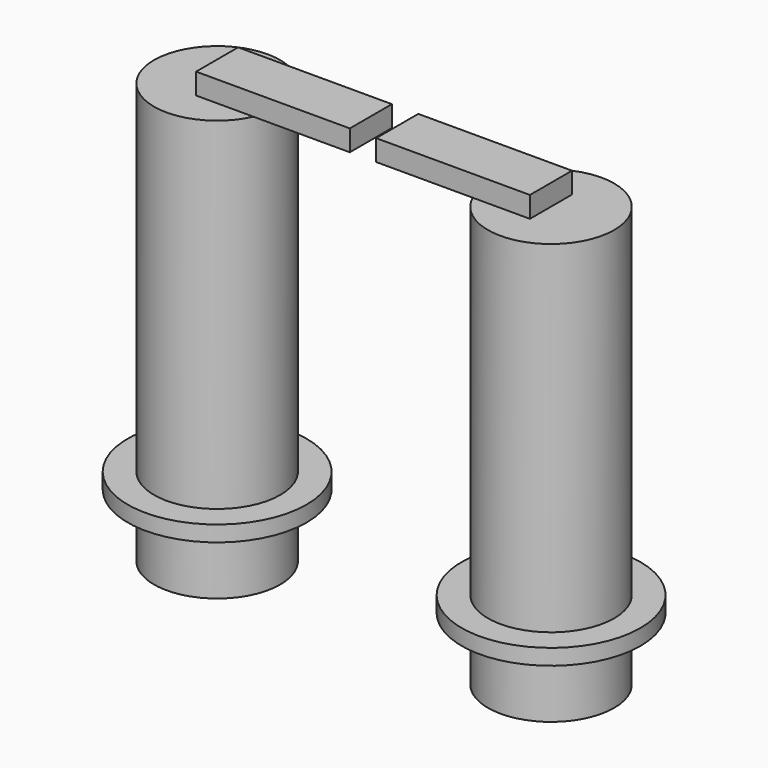
from build123d import *

# Parameters (mm, degrees)
CYLINDER100_R     = 17
CYLINDER100_DEPTH = 3
CYLINDER095_R     = 12
CYLINDER095_DEPTH = 80
CYLINDER132_R     = 17
CYLINDER132_DEPTH = 3
CYLINDER131_R     = 12
CYLINDER131_DEPTH = 80
BOX029_W          = 29.23
BOX029_H          = 10
BOX029_DEPTH      = 4
BOX020_W          = 29.23
BOX020_H          = 10
BOX020_DEPTH      = 4


with BuildPart() as ft1flange:
    # Cylinder100 → Cylinder100 (new body)
    with BuildSketch(Plane(origin=(73.66, 148, -8), x_dir=(1, 0, 0), z_dir=(0, 0, 1))):
        Circle(CYLINDER100_R)
    extrude(amount=CYLINDER100_DEPTH)


with BuildPart() as ft1:
    # Cylinder095 → Cylinder095 (new body)
    with BuildSketch(Plane(origin=(73.66, 148, -20), x_dir=(1, 0, 0), z_dir=(0, 0, 1))):
        Circle(CYLINDER095_R)
    extrude(amount=CYLINDER095_DEPTH)

    # Fusion043: union FT1flange
    add(ft1flange.part)


with BuildPart() as ft1flange001:
    # Cylinder132 → Cylinder132 (new body)
    with BuildSketch(Plane(origin=(73.66, 148, -8), x_dir=(1, 0, 0), z_dir=(0, 0, 1))):
        Circle(CYLINDER132_R)
    extrude(amount=CYLINDER132_DEPTH)


with BuildPart() as ft002:
    # Cylinder131 → Cylinder131 (new body)
    with BuildSketch(Plane(origin=(73.66, 148, -20), x_dir=(1, 0, 0), z_dir=(0, 0, 1))):
        Circle(CYLINDER131_R)
    extrude(amount=CYLINDER131_DEPTH)

    # Fusion052: union FT1flange001
    add(ft1flange001.part)


with BuildPart() as ft002_1:
    # Fusion052 placement: moved
    add(ft002.part.moved(Location((63.5, 0, 0))))


with BuildPart() as bowtiebar002:
    # Box029 → Box029 (new body)
    with BuildSketch(Plane(origin=(107.91, 143, 60), x_dir=(1, 0, 0), z_dir=(0, 0, 1))):
        with Locations((14.615, 5)):
            Rectangle(BOX029_W, BOX029_H)
    extrude(amount=BOX029_DEPTH)


with BuildPart() as fusion057:
    # Box020 → Box020 (new body)
    with BuildSketch(Plane(origin=(73.66, 143, 60), x_dir=(1, 0, 0), z_dir=(0, 0, 1))):
        with Locations((14.615, 5)):
            Rectangle(BOX020_W, BOX020_H)
    extrude(amount=BOX020_DEPTH)

    # Fusion057: union FT1, FT002, BowTieBar002
    add(ft1.part)
    add(ft002_1.part)
    add(bowtiebar002.part)


solid = fusion057.part
